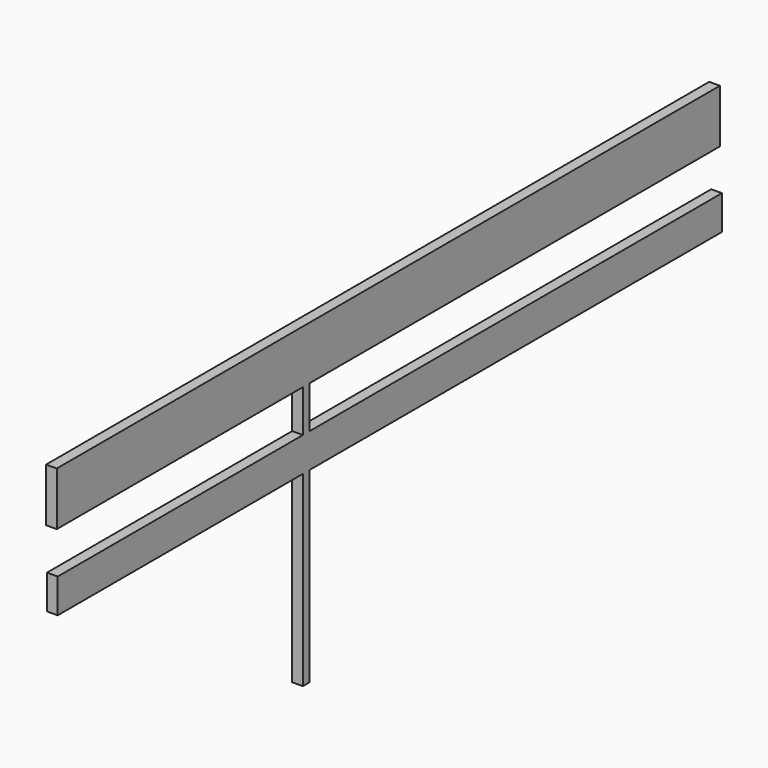
from build123d import *

# Parameters (mm, degrees)
F0_W     = 101.6
F0_H     = 635
F0_W_2   = 6096
F0_W_3   = 3657.6
F0_H_2   = 501.65
F0_W_4   = 6126.3821975708
F0_H_3   = 406.4
F0_W_5   = 3643.6994926453
F0_H_4   = 2222.5
F1_DEPTH = 127


with BuildPart() as f1:
    # F0 (on Right) → F1 (new body)
    with BuildSketch(Plane.YZ):
        with Locations((0, 1565.275)):
            Rectangle(F0_W, F0_H)
        with Locations((3098.8, 1565.275)):
            Rectangle(F0_W_2, F0_H)
        with Locations((-1879.6, 1565.275)):
            Rectangle(F0_W_3, F0_H)
        with Locations((0, 996.95)):
            Rectangle(F0_W, F0_H_2)
        with Locations((3113.9910987854, 542.925)):
            Rectangle(F0_W_4, F0_H_3)
        with Locations((0, 542.925)):
            Rectangle(F0_W, F0_H_3)
        with Locations((-1872.6497463226, 542.925)):
            Rectangle(F0_W_5, F0_H_3)
        with Locations((0, -771.525)):
            Rectangle(F0_W, F0_H_4)
    extrude(amount=F1_DEPTH)


solid = f1.part
